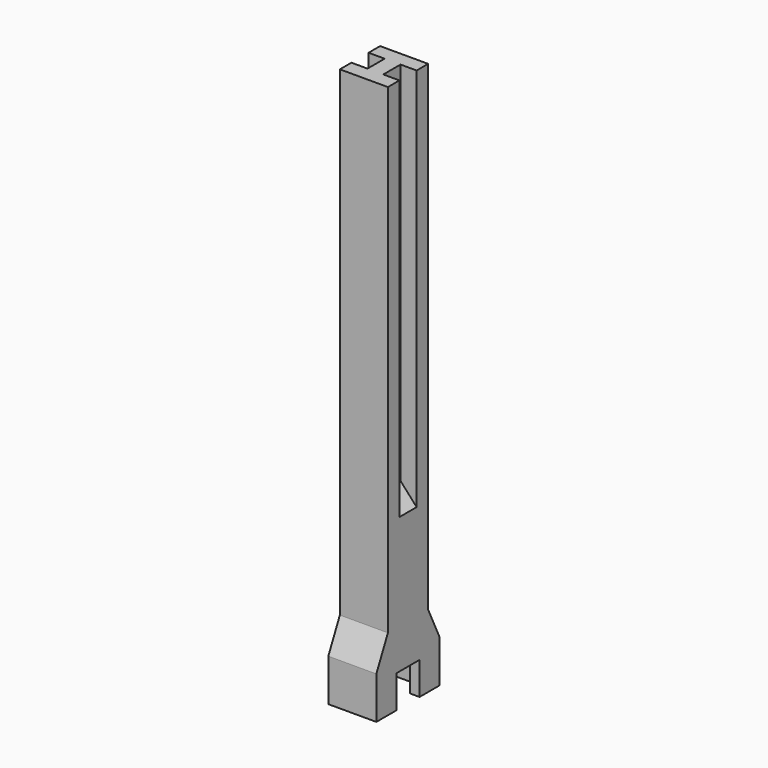
from build123d import *

# Parameters (mm, degrees)
F1_DEPTH  = 6.8
F3_DEPTH  = 2
F3_FACE_W = 10
F3_FACE_H = 16.472
F6_W      = 10
F6_H      = 10.472
F9_DEPTH  = 100
F10_W     = 3.3527343459
F10_H     = 4.472
F11_DEPTH = 20
F13_DEPTH = 4.8


with BuildPart() as f1:
    # F0 (on Top) → F1 (new body)
    with BuildSketch(Plane.XY):
        Polygon((-5, 5.236), (-5, 0), (-3, 0), (-3, 3.236), (0, 3.236), (3, 3.236), (3, 0), (5, 0), (5, 5.236), (0, 5.236), align=None)
    extrude(amount=F1_DEPTH)


with BuildPart() as f1b:
    # F0 (on Top) → F1, piece 2 (new body)
    with BuildSketch(Plane.XY):
        Polygon((-3, -6), (-5, -6), (-5, -11.236), (0, -11.236), (5, -11.236), (5, -6), (3, -6), (3, -9.236), (0, -9.236), (-3, -9.236), align=None)
    extrude(amount=F1_DEPTH)


with BuildPart() as f3:
    # F2 (on face) → F3 (new body)
    with BuildSketch(Plane.XY.offset(6.8)):
        Polygon((-3, 0), (-5, 0), (-5, -11.236), (5, -11.236), (5, 0), (3, 0), (3, 3.236), (-3, 3.236), align=None)
        Polygon((5, 5.236), (-5, 5.236), (-5, 0), (-3, 0), (-3, 3.236), (3, 3.236), (3, 0), (5, 0), align=None)
    extrude(amount=F3_DEPTH)


with BuildPart() as f1_1:
    add(f1.part)

    # F4: union F1b, F3
    add(f1b.part)
    add(f3.part)

    # F3_face (on face) → F7 section 0
    with BuildSketch(Plane(origin=(0, -3, 8.8), x_dir=(1, 0, 0), z_dir=(0, 0, 1))):
        Rectangle(F3_FACE_W, F3_FACE_H)
    # F6 (on offset) → F7 section 1
    with BuildSketch(Plane.XY.offset(15.1)):
        with Locations((0, -3)):
            Rectangle(F6_W, F6_H)
    loft()

    # F8 (on face) → F9 (join)
    with BuildSketch(Plane.XY.offset(15.1)):
        Polygon((5, 2.236), (-5, 2.236), (-5, -0.764), (-1.6472656541, -0.764), (-1.6472656541, -5.236), (-5, -5.236), (-5, -8.236), (5, -8.236), (5, -5.236), (1.6472656541, -5.236), (1.6472656541, -0.764), (5, -0.764), align=None)
    extrude(amount=F9_DEPTH)

    # F10 (on face) → F11 (join)
    with BuildSketch(Plane.XY.offset(15.1)):
        with Locations((3.323632827, -3)):
            Rectangle(F10_W, F10_H)
    extrude(amount=F11_DEPTH)

    # F12 (on face) → F13 (join)
    with BuildSketch(Plane.XZ.offset(0.764)):
        Polygon((1.6472656541, 35.1), (5, 35.1), (1.6472656541, 38.8235887235), align=None)
    extrude(amount=F13_DEPTH)

    # F14: F1 across plane


with BuildPart() as f1_2:
    add(f1_1.part)
    add(f1_1.part.mirror(Plane.YZ))


solid = f1_2.part
